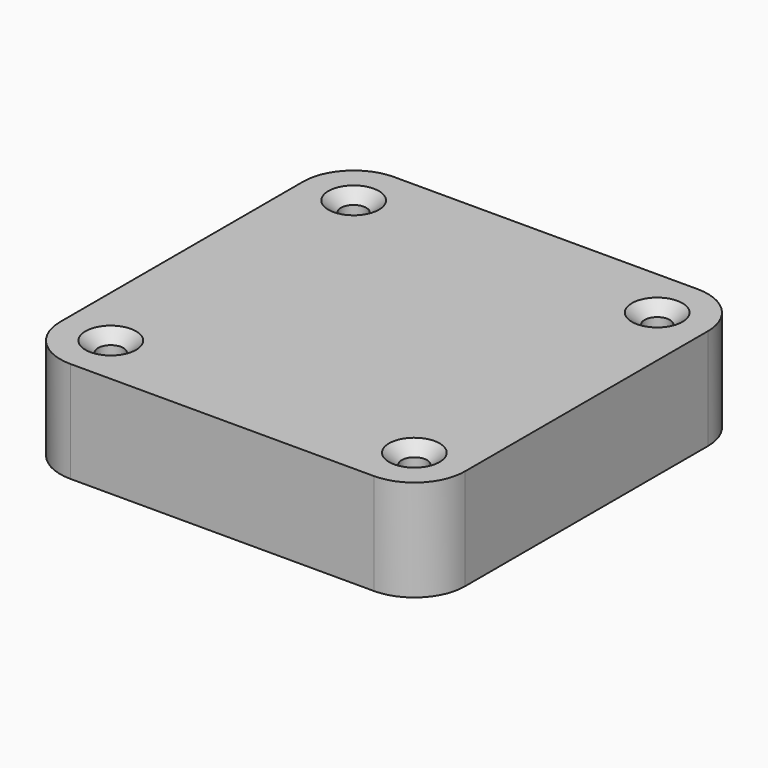
from build123d import *

# Parameters (mm, degrees)
F1_DEPTH       = 25.4
F3_D           = 6.35
F3_CSINK_D     = 12.7
F3_CSINK_ANGLE = 100


with BuildPart() as f1:
    # F0 (on Top) → F1 (new body)
    with BuildSketch(Plane.XY):
        with BuildLine():
            ThreePointArc((-50.8, -38.1), (-47.080256, -47.080256), (-38.1, -50.8))
            Line((-38.1, -50.8), (38.1, -50.8))
            ThreePointArc((38.1, -50.8), (47.080256, -47.080256), (50.8, -38.1))
            Line((50.8, -38.1), (50.8, 38.1))
            ThreePointArc((50.8, 38.1), (47.080256, 47.080256), (38.1, 50.8))
            Line((38.1, 50.8), (-38.1, 50.8))
            ThreePointArc((-38.1, 50.8), (-47.080256, 47.080256), (-50.8, 38.1))
            Line((-50.8, 38.1), (-50.8, -38.1))
        make_face()
    extrude(amount=F1_DEPTH)

    # F3 (through all)
    with Locations(Plane.XY.offset(25.4)):
        with Locations((-38.1, 38.1), (38.1, 38.1), (38.1, -38.1), (-38.1, -38.1)):
            CounterSinkHole(F3_D / 2, F3_CSINK_D / 2, counter_sink_angle=F3_CSINK_ANGLE)


solid = f1.part
